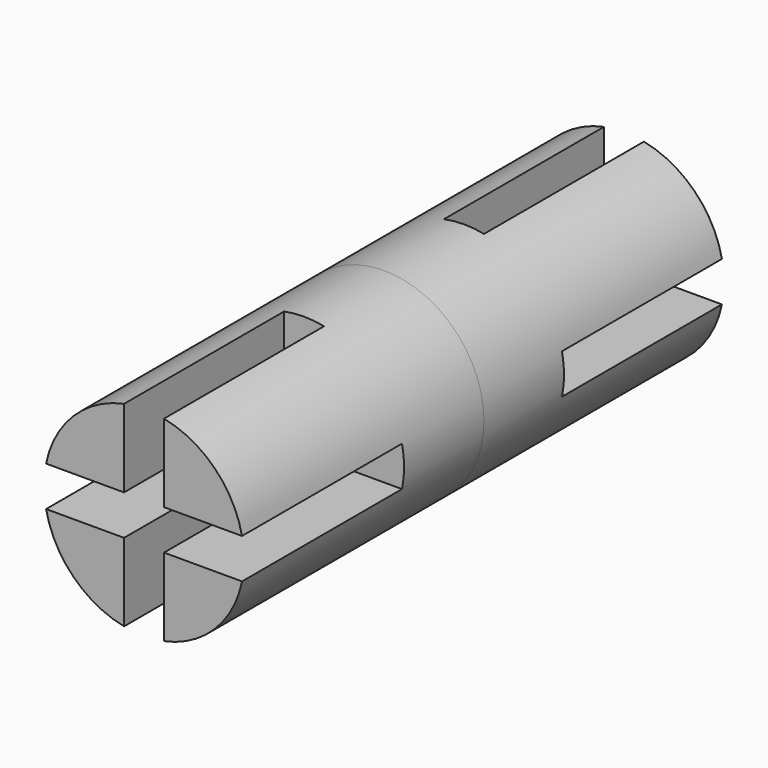
from build123d import *

# Parameters (mm, degrees)
F0_R     = 5
F1_DEPTH = 15
F3_DEPTH = 10
F4_R     = 1
F5_DEPTH = 5.001


with BuildPart() as f1:
    # F0 (on Front) → F1 (new body)
    with BuildSketch(Plane.XZ):
        Circle(F0_R)
    extrude(amount=F1_DEPTH)

    # F2 (on face) → F3 (cut)
    with BuildSketch(Plane.XZ.offset(15)):
        with BuildLine():
            ThreePointArc((-1, -4.8989794856), (0, -5), (1, -4.8989794856))
            Line((1, -4.8989794856), (1, -1))
            Line((1, -1), (4.8989794856, -1))
            ThreePointArc((4.8989794856, -1), (4.974680765, -0.50254481), (5, 0))
            ThreePointArc((5, 0), (4.974680765, 0.50254481), (4.8989794856, 1))
            Line((4.8989794856, 1), (1, 1))
            Line((1, 1), (1, 4.8989794856))
            ThreePointArc((1, 4.8989794856), (0, 5), (-1, 4.8989794856))
            Line((-1, 4.8989794856), (-1, 1))
            Line((-1, 1), (-4.8989794856, 1))
            ThreePointArc((-4.8989794856, 1), (-5, 0), (-4.8989794856, -1))
            Line((-4.8989794856, -1), (-1, -1))
            Line((-1, -1), (-1, -4.8989794856))
        make_face()
    extrude(amount=-F3_DEPTH, mode=Mode.SUBTRACT)

    # F4 (on face) → F5 (cut, through all)
    with BuildSketch(Plane.XZ.offset(5)):
        Circle(F4_R)
    extrude(amount=-F5_DEPTH, mode=Mode.SUBTRACT)


with BuildPart() as f6_1:
    # F6: instance of F1
    add(f1.part.mirror(Plane.XZ))


solid = Compound([f1.part, f6_1.part])
